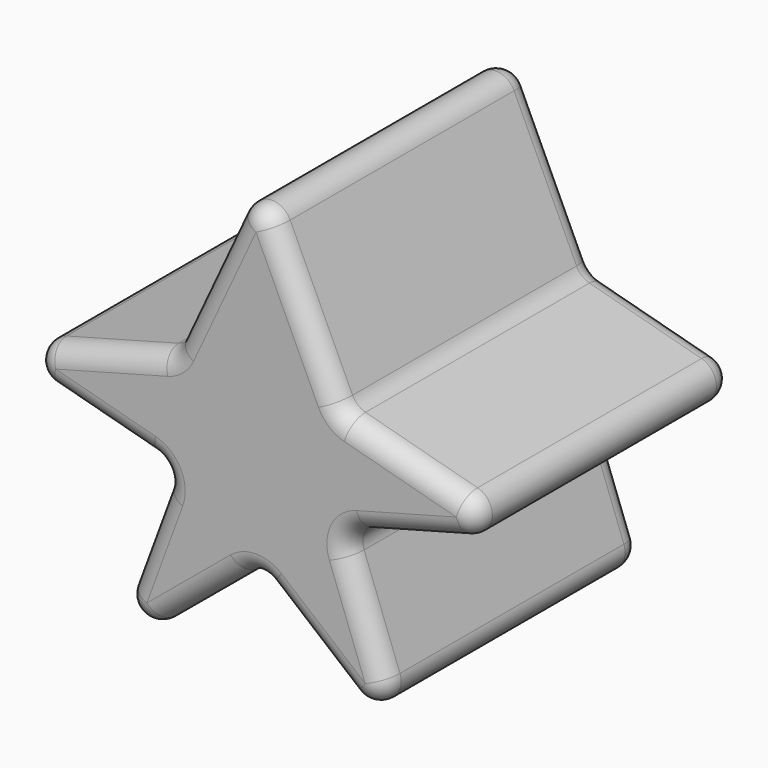
from build123d import *

# Parameters (mm, degrees)
F1_DEPTH = 20.32
F2_R     = 1.27


with BuildPart() as f1:
    # F0 (on Front) → F1 (new body)
    with BuildSketch(Plane.XZ):
        Polygon((5.367252, 3.287002), (0, 14.797111), (-5.367252, 3.287002), (-17.63451, 0), (-5.367252, -3.287002), (-9.767185, -15.200464), (0, -7.08307), (9.767185, -15.200464), (5.367252, -3.287002), (17.63451, 0), align=None)
    extrude(amount=F1_DEPTH)

    # F2
    f2_edges = [f1.edges().sort_by_distance(p)[0] for p in [
        (-11.500881, -20.32, -1.643501),
        (0, -10.16, 14.797111),
        (-17.63451, -10.16, 0),
        (17.63451, -10.16, 0),
        (9.767185, -10.16, -15.200464),
        (-2.683626, -20.32, 9.042056),
        (4.883593, -20.32, -11.141767),
        (11.500881, -20.32, 1.643501),
        (7.567219, 0, -9.243733),
        (-11.500881, -20.32, 1.643501),
        (-11.500881, 0, -1.643501),
        (-5.367252, -10.16, 3.287002),
        (-5.367252, -10.16, -3.287002),
        (-9.767185, -10.16, -15.200464),
        (0, -10.16, -7.08307),
        (5.367252, -10.16, 3.287002),
        (5.367252, -10.16, -3.287002),
        (-2.683626, 0, 9.042056),
        (-11.500881, 0, 1.643501),
        (-7.567219, 0, -9.243733),
        (-7.567219, -20.32, -9.243733),
        (2.683626, 0, 9.042056),
        (2.683626, -20.32, 9.042056),
        (11.500881, 0, 1.643501),
        (11.500881, 0, -1.643501),
        (11.500881, -20.32, -1.643501),
        (7.567219, -20.32, -9.243733),
        (-4.883593, 0, -11.141767),
        (-4.883593, -20.32, -11.141767),
        (4.883593, 0, -11.141767),
    ]]
    fillet(f2_edges, radius=F2_R)


solid = f1.part
